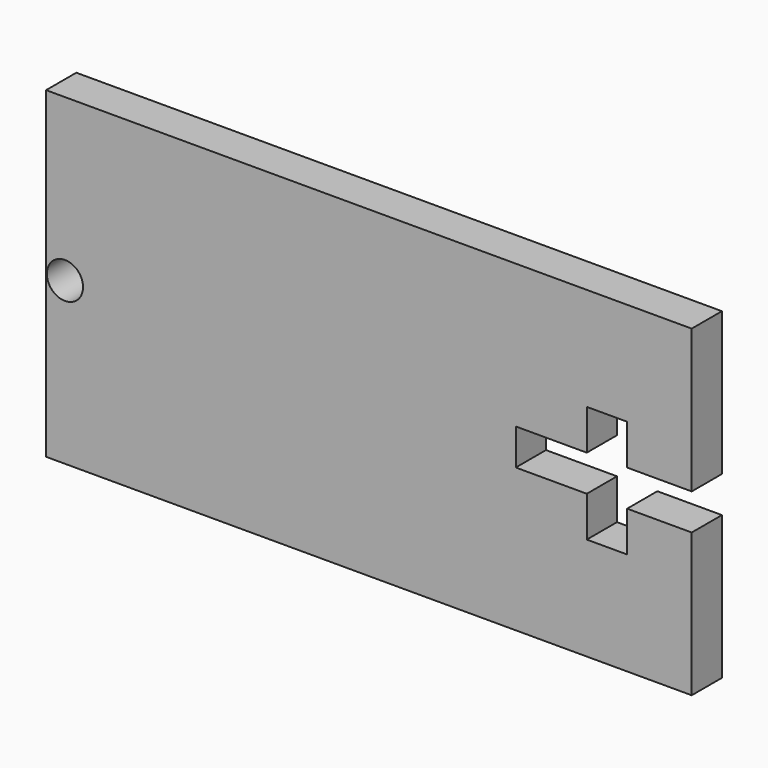
from build123d import *

# Parameters (mm, degrees)
F0_R     = 1.4224
F1_DEPTH = 2.9718


with BuildPart() as f1:
    # F0 (on Front) → F1 (new body)
    with BuildSketch(Plane.XZ):
        Polygon((0, 25.4), (0, 0), (50.8, 0), (50.8, 11.2776), (45.72, 11.2776), (45.72, 8.1026), (42.545, 8.1026), (42.545, 11.2776), (36.957, 11.2776), (36.957, 14.1224), (42.545, 14.1224), (42.545, 17.2974), (45.72, 17.2974), (45.72, 14.1224), (50.8, 14.1224), (50.8, 25.4), align=None)
        with Locations((1.4859, 12.7)):
            Circle(F0_R, mode=Mode.SUBTRACT)
    extrude(amount=F1_DEPTH)


solid = f1.part
